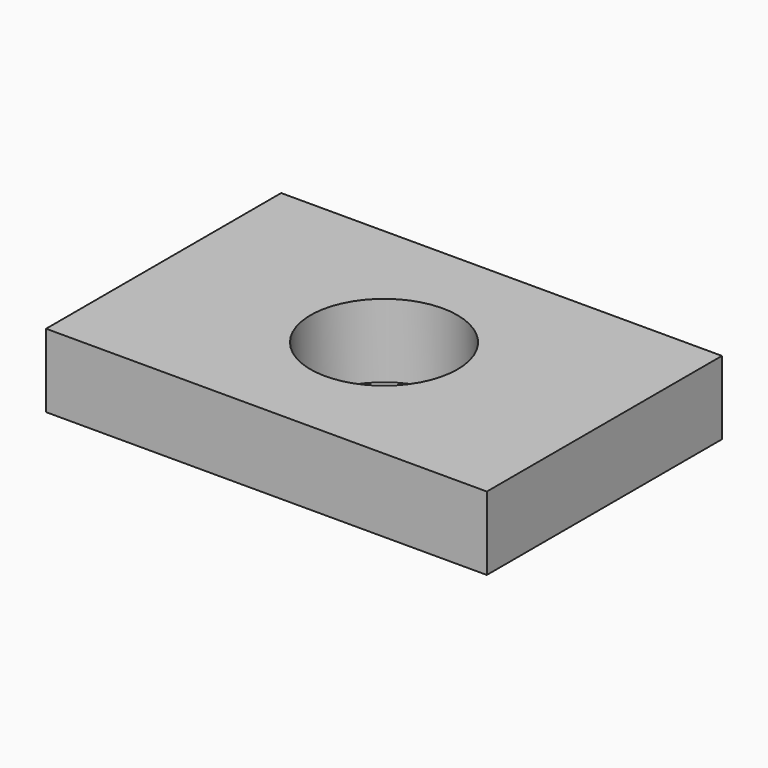
from build123d import *

# Parameters (mm, degrees)
SKETCH_W     = 120
SKETCH_H     = 80
PAD_DEPTH    = 20
SKETCH001_R  = 20
POCKET_DEPTH = 20


with BuildPart() as part:
    # Sketch → Pad (new body)
    with BuildSketch(Plane.XY):
        Rectangle(SKETCH_W, SKETCH_H)
    extrude(amount=PAD_DEPTH)

    # Sketch001 (on Face6 of Pad) → Pocket (cut)
    with BuildSketch(Plane.XY.offset(20)):
        Circle(SKETCH001_R)
    extrude(amount=-POCKET_DEPTH, mode=Mode.SUBTRACT)


solid = part.part
